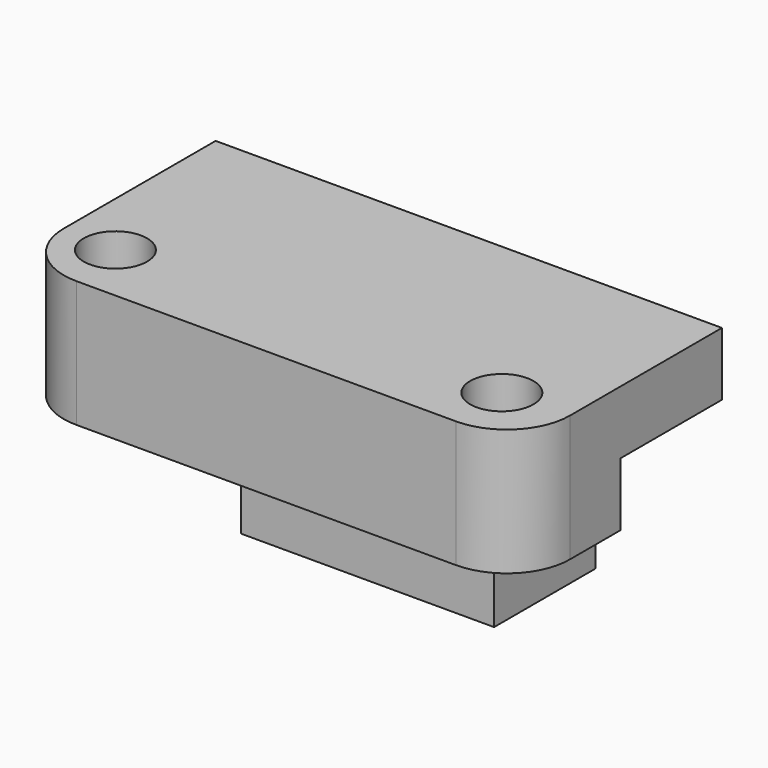
from build123d import *

# Parameters (mm, degrees)
F0_W      = 203.2
F0_H      = 101.6
F1_DEPTH  = 101.6
F2_W      = 203.2
F2_H      = 50.8
F3_DEPTH  = 50.8
F4_W      = 50.8
F4_H      = 50.8
F5_DEPTH  = 76.2
F6_W      = 50.8
F6_H      = 50.8
F7_DEPTH  = 76.2
F8_R      = 25.4
F9_R      = 25.4
F12_D     = 6.35
F11_R     = 12.7
F13_DEPTH = 101.6
F14_R     = 12.7
F14_R_2   = 3.175
F15_DEPTH = 101.6


with BuildPart() as f1:
    # F0 (on Front) → F1 (new body)
    with BuildSketch(Plane.XZ):
        with Locations((-14.2620336264, 18.2871496212)):
            Rectangle(F0_W, F0_H)
    extrude(amount=F1_DEPTH)

    # F2 (on face) → F3 (cut)
    with BuildSketch(Plane.XZ.offset(101.6)):
        with Locations((-14.2620336264, -7.1128503788)):
            Rectangle(F2_W, F2_H)
    extrude(amount=-F3_DEPTH, mode=Mode.SUBTRACT)

    # F4 (on face) → F5 (cut)
    with BuildSketch(Plane(origin=(0, 0, -32.5128503788), x_dir=(1, 0, 0), z_dir=(0, 0, -1))):
        with Locations((61.9379663736, 25.4)):
            Rectangle(F4_W, F4_H)
    extrude(amount=-F5_DEPTH, mode=Mode.SUBTRACT)

    # F6 (on face) → F7 (cut)
    with BuildSketch(Plane(origin=(0, 0, -32.5128503788), x_dir=(1, 0, 0), z_dir=(0, 0, -1))):
        with Locations((-90.4620336264, 25.4)):
            Rectangle(F6_W, F6_H)
    extrude(amount=-F7_DEPTH, mode=Mode.SUBTRACT)

    # F8
    f8_edges = [f1.edges().sort_by_distance(p)[0] for p in [
        (87.337966, -101.6, 43.68715),
    ]]
    fillet(f8_edges, radius=F8_R)

    # F9
    f9_edges = [f1.edges().sort_by_distance(p)[0] for p in [
        (-115.862034, -101.6, 43.68715),
    ]]
    fillet(f9_edges, radius=F9_R)

    # F12 (through all)
    with Locations(Plane(origin=(0, 0, 18.2871496212), x_dir=(1, 0, 0), z_dir=(0, 0, -1))):
        with Locations((-94.1294133663, 77.4258524179)):
            Hole(F12_D / 2)

    # F11 (on face) → F13 (cut)
    with BuildSketch(Plane(origin=(0, 0, 18.2871496212), x_dir=(1, 0, 0), z_dir=(0, 0, -1))):
        with Locations((60.9464161098, 77.4258524179)):
            Circle(F11_R)
    extrude(amount=-F13_DEPTH, mode=Mode.SUBTRACT)

    # F14 (on face) → F15 (cut)
    with BuildSketch(Plane(origin=(0, 0, 18.2871496212), x_dir=(1, 0, 0), z_dir=(0, 0, -1))):
        with Locations((-94.1294133663, 77.4258524179)):
            Circle(F14_R)
        with Locations((-94.1294133663, 77.4258524179)):
            Circle(F14_R_2, mode=Mode.SUBTRACT)
    extrude(amount=-F15_DEPTH, mode=Mode.SUBTRACT)


solid = f1.part
